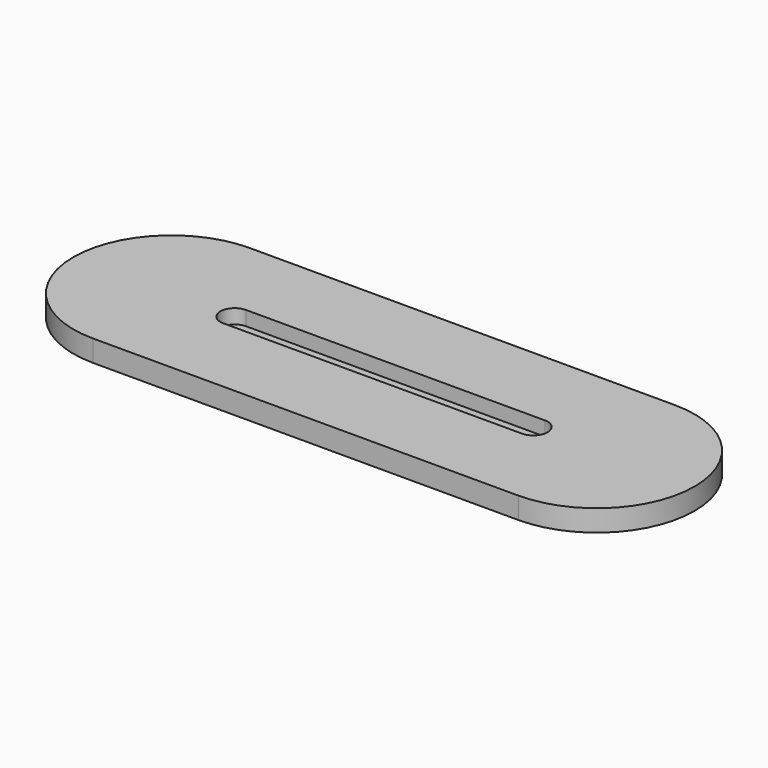
from build123d import *

# Parameters (mm, degrees)
PAD_DEPTH    = 9
POCKET_DEPTH = 6


with BuildPart() as part:
    # Sketch → Pad (new body)
    with BuildSketch(Plane.XY):
        with BuildLine():
            ThreePointArc((-89, 41), (-130, 0), (-89, -41))
            Line((-89, -41), (89, -41))
            ThreePointArc((89, -41), (130, 0), (89, 41))
            Line((-89, 41), (89, 41))
        make_face()
    extrude(amount=PAD_DEPTH)

    # Sketch001 (on Face6 of Pad) → Pocket (cut)
    with BuildSketch(Plane.XY.offset(9)):
        with BuildLine():
            ThreePointArc((-62.5, 6), (-68.5, 0), (-62.5, -6))
            Line((-62.5, -6), (62.5, -6))
            ThreePointArc((62.5, -6), (68.5, 0), (62.5, 6))
            Line((-62.5, 6), (62.5, 6))
        make_face()
    extrude(amount=-POCKET_DEPTH, mode=Mode.SUBTRACT)


solid = part.part
